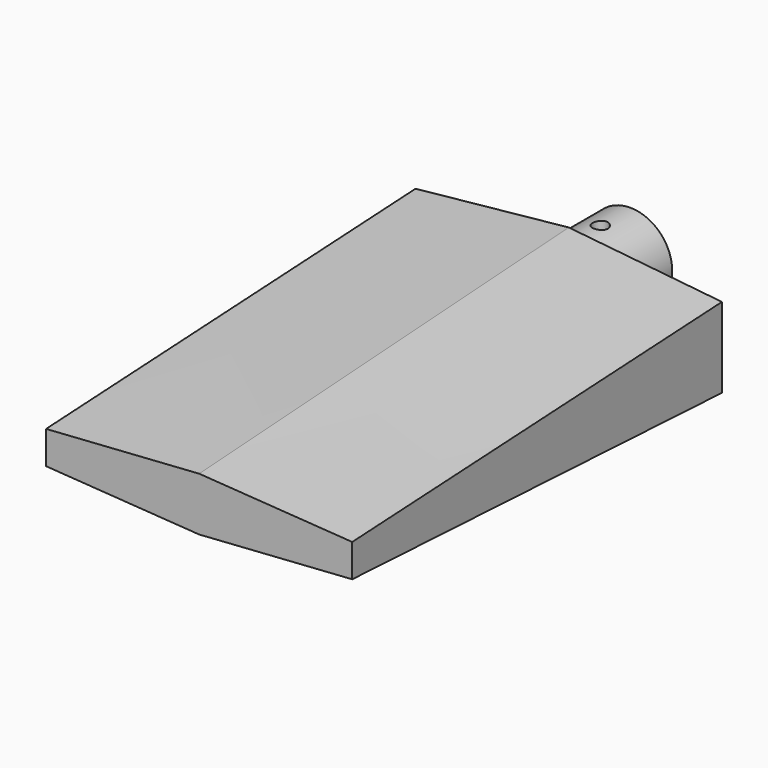
from build123d import *

# Parameters (mm, degrees)
F4_R          = 3.4529620344
F5_DEPTH      = 6.35
F6_W          = 3.175
F6_H          = 2.794
F7_DEPTH      = 25.4
F7_DEPTH_BACK = 12.7
F9_R          = 0.635
F10_DEPTH     = 6.35


with BuildPart() as f3:
    # F1 (on Front) → F3 section 0
    with BuildSketch(Plane.XZ):
        Polygon((12.6337242704, 3.302), (0, 4.5977665918), (-12.6337242704, 3.302), (-12.6337242704, 0), (-12.6337242704, -3.302), (0, -4.5977665918), (12.6337242704, -3.302), (12.6337242704, 0), align=None)
    # F2 (on offset) → F3 section 1
    with BuildSketch(Plane.XZ.offset(38.1)):
        Polygon((12.6239405945, -1.3549544383), (12.6239405945, 0), (12.6239405945, 1.3549544383), (0, 2.2075881716), (-12.6239405945, 1.3549544383), (-12.6239405945, 0), (-12.6239405945, -1.3549544383), (0, -2.2075881716), align=None)
    loft()

    # F4 (on Front) → F5 (join)
    with BuildSketch(Plane.XZ):
        Circle(F4_R)
    extrude(amount=-F5_DEPTH)

    # F6 (on Front) → F7 (cut, two sides)
    with BuildSketch(Plane.XZ) as f7_sk:
        Rectangle(F6_W, F6_H)
    extrude(amount=-F7_DEPTH, mode=Mode.SUBTRACT)
    extrude(f7_sk.sketch, amount=F7_DEPTH_BACK, mode=Mode.SUBTRACT)

    # F9 (on offset) → F10 (cut)
    with BuildSketch(Plane.XY.offset(6.35)):
        with Locations((0, 3.2384919468)):
            Circle(F9_R)
    extrude(amount=-F10_DEPTH, mode=Mode.SUBTRACT)


solid = f3.part
